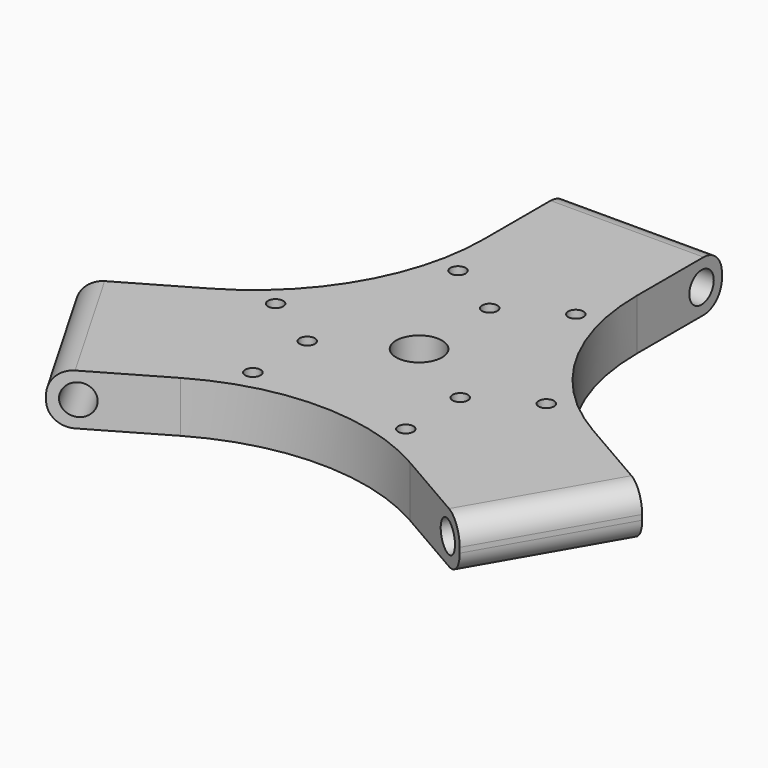
from build123d import *

# Parameters (mm, degrees)
SKETCH021_R           = 4.5
SKETCH021_R_2         = 1.5
PAD011_DEPTH          = 10
FILLET_R              = 4.5
SKETCH022_R           = 3
POCKET004_DEPTH       = 350.264033
POCKET004_DEPTH_BACK  = 350.264033
POLARPATTERN001_COUNT = 3
FILLET001_R           = 45
SKETCH025_R           = 1.5
POCKET005_DEPTH       = 304.699646
POLARPATTERN002_COUNT = 3


with BuildPart() as part:
    # Sketch021 → Pad011 (new body)
    with BuildSketch(Plane.XY):
        Polygon((-40.564433, -40.740341), (-55.564387, -14.759659), (-14.999954, 8.660227), (-14.999954, 55.5), (14.999954, 55.5), (14.999954, 8.660227), (55.564387, -14.759659), (40.564387, -40.740421), (0, -17.320455), align=None)
        Circle(SKETCH021_R, mode=Mode.SUBTRACT)
        with Locations((0, 17.320508)):
            Circle(SKETCH021_R_2, mode=Mode.SUBTRACT)
        with Locations((15, -8.660254)):
            Circle(SKETCH021_R_2, mode=Mode.SUBTRACT)
        with Locations((-15, -8.660254)):
            Circle(SKETCH021_R_2, mode=Mode.SUBTRACT)
    extrude(amount=PAD011_DEPTH)

    # Fillet
    fillet_edges = [part.edges().sort_by_distance(p)[0] for p in [
        (0, 55.5, 0),
        (48.064387, -27.75004, 0),
        (-48.06441, -27.75, 0),
        (48.064387, -27.75004, 10),
        (-48.06441, -27.75, 10),
        (0, 55.5, 10),
    ]]
    fillet(fillet_edges, radius=FILLET_R)

    # Sketch022 → Pocket004 (cut, two sides)
    with BuildSketch(Plane.YZ) as pocket004_sk:
        with Locations((50.5, 5)):
            Circle(SKETCH022_R)
    pocket004 = extrude(amount=-POCKET004_DEPTH, mode=Mode.SUBTRACT) + extrude(pocket004_sk.sketch, amount=POCKET004_DEPTH_BACK, mode=Mode.SUBTRACT)

    # PolarPattern001: Pocket004 ×3 about axis
    polarpattern001_axis = Axis((0, 0, 0), (0, 0, 1))
    for i in range(1, POLARPATTERN001_COUNT):
        add(pocket004.rotate(polarpattern001_axis, i * 360 / POLARPATTERN001_COUNT), mode=Mode.SUBTRACT)

    # Fillet001
    fillet001_edges = [part.edges().sort_by_distance(p)[0] for p in [
        (14.999954, 8.660227, 5),
        (-14.999954, 8.660227, 5),
        (0, -17.320455, 5),
    ]]
    fillet(fillet001_edges, radius=FILLET001_R)

    # Sketch025 (on Face5 of Fillet001) → Pocket005 (cut, through all)
    with BuildSketch(Plane.XY.offset(10)):
        with Locations((11.552559, 23.990381)):
            Circle(SKETCH025_R)
        with Locations((26.552559, -1.990381)):
            Circle(SKETCH025_R)
    pocket005 = extrude(amount=-POCKET005_DEPTH, mode=Mode.SUBTRACT)

    # PolarPattern002: Pocket005 ×3 about axis
    polarpattern002_axis = Axis((0, 0, 10), (0, 0, 1))
    for i in range(1, POLARPATTERN002_COUNT):
        add(pocket005.rotate(polarpattern002_axis, i * 360 / POLARPATTERN002_COUNT), mode=Mode.SUBTRACT)


solid = part.part
